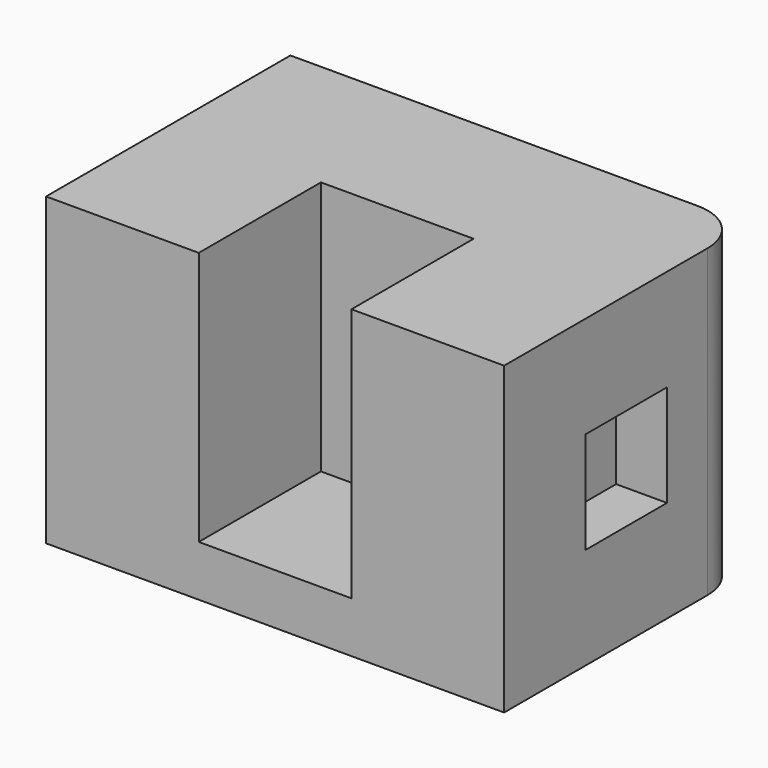
from build123d import *

# Parameters (mm, degrees)
F0_W     = 228.6
F0_H     = 152.4
F1_DEPTH = 152.4
F2_W     = 76.2
F2_H     = 127
F3_DEPTH = 76.2
F4_W     = 50.8
F4_H     = 50.8
F5_DEPTH = 25.4
F6_R     = 25.4


with BuildPart() as f1:
    # F0 (on Front) → F1 (new body)
    with BuildSketch(Plane.XZ):
        with Locations((-114.3, 76.2)):
            Rectangle(F0_W, F0_H)
    extrude(amount=F1_DEPTH)

    # F2 (on face) → F3 (cut)
    with BuildSketch(Plane.XZ.offset(152.4)):
        with Locations((-114.3, 88.9)):
            Rectangle(F2_W, F2_H)
    extrude(amount=-F3_DEPTH, mode=Mode.SUBTRACT)

    # F4 (on face) → F5 (cut)
    with BuildSketch(Plane.YZ):
        with Locations((-76.2, 76.2)):
            Rectangle(F4_W, F4_H)
    extrude(amount=-F5_DEPTH, mode=Mode.SUBTRACT)

    # F6
    f6_edges = [f1.edges().sort_by_distance(p)[0] for p in [
        (0, 0, 76.2),
    ]]
    fillet(f6_edges, radius=F6_R)


solid = f1.part
